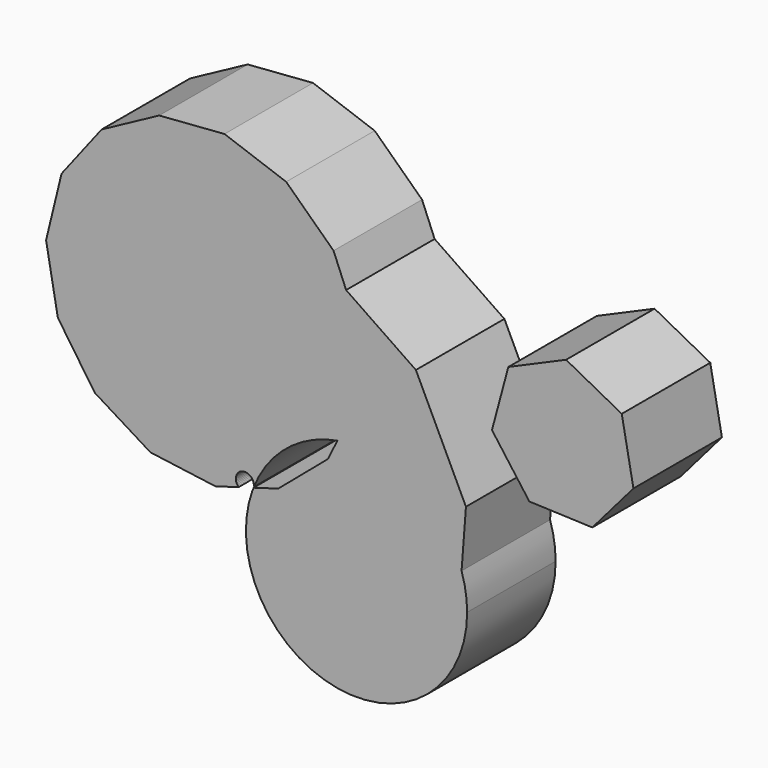
from build123d import *

# Parameters (mm, degrees)
F1_DEPTH = 25.4


with BuildPart() as f1:
    # F0 (on Front) → F1 (new body)
    with BuildSketch(Plane.XZ):
        Polygon((34.8566744245, 52.6691357483), (31.1018098146, 38.6991985142), (39.6828267606, 27.0534137518), (54.1380444814, 26.5012949177), (63.5823892004, 37.4585987553), (60.9040767148, 51.6742519866), (48.1199309538, 58.4435777819), align=None)
    extrude(amount=F1_DEPTH)


with BuildPart() as f1b:
    # F0 (on Front) → F1, piece 2 (new body)
    with BuildSketch(Plane.XZ):
        with BuildLine():
            ThreePointArc((11.0580974059, -22.8665362869), (21.5178492665, -13.496005444), (25.4, 0))
            ThreePointArc((25.4, 0), (25.0779056149, 4.0322016283), (24.1197913408, 7.9621395161))
            Line((24.1197913408, 7.9621395161), (23.1239564498, -5.1969946066))
            Line((23.1239564498, -5.1969946066), (11.0580974059, -22.8665362869))
        make_face()
        Polygon((-8.2755630628, 60.1271459405), (-2.3912059918, 56.1089419448), (-5.2743577139, 63.1287774352), (-16.1509683998, 73.5122769545), (-30.3105964242, 78.5741596564), (-45.3049134657, 77.439180036), (-58.5412658886, 70.3035863806), (-67.7309681106, 58.401187658), (-71.2850371316, 43.7900167374), (-69.605856925, 34.5763140522), (-58.6392917008, 50.6360227405), (-34.7289967801, 62.1290445487), align=None)
        with BuildLine():
            ThreePointArc((-4.4094518109, 25.0143305872), (13.0314495041, 21.802323817), (24.1197913408, 7.9621395161))
            Line((24.1197913408, 7.9621395161), (25.1258550579, 21.2564391108))
            Line((25.1258550579, 21.2564391108), (13.6328332497, 45.1667340314))
            Line((13.6328332497, 45.1667340314), (-2.3912059918, 56.1089419448))
            Line((-2.3912059918, 56.1089419448), (0.4385708348, 49.2190624965))
            Line((0.4385708348, 49.2190624965), (0, 34.1882482171))
            Line((0, 34.1882482171), (-4.4094518109, 25.0143305872))
        make_face()
        with BuildLine():
            Line((23.1239564498, -5.1969946066), (24.1197913408, 7.9621395161))
            ThreePointArc((24.1197913408, 7.9621395161), (13.0314495041, 21.802323817), (-4.4094518109, 25.0143305872))
            Line((-4.4094518109, 25.0143305872), (-6.5142373367, 20.6352989366))
            Line((-6.5142373367, 20.6352989366), (-17.9777703597, 10.9036427102))
            Line((-17.9777703597, 10.9036427102), (-23.6327792025, 9.2469280132))
            Line((-23.6327792025, 9.2469280132), (-23.6581400337, 9.1376656564))
            Line((-23.6581400337, 9.1376656564), (-23.7506981535, 8.8889762744))
            Line((-23.7506981535, 8.8889762744), (-23.8742980647, 8.6541646984))
            Line((-23.8742980647, 8.6541646984), (-23.8865283324, 8.6367681585))
            ThreePointArc((-23.8865283324, 8.6367681585), (-17.0075485522, -18.8653993397), (11.0580974059, -22.8665362869))
            Line((11.0580974059, -22.8665362869), (23.1239564498, -5.1969946066))
        make_face()
        with BuildLine():
            ThreePointArc((-23.5981435072, 9.3961493717), (-16.0339715914, 19.6995369236), (-4.4094518109, 25.0143305872))
            Line((-4.4094518109, 25.0143305872), (0, 34.1882482171))
            Line((0, 34.1882482171), (0.4385708348, 49.2190624965))
            Line((0.4385708348, 49.2190624965), (-2.3912059918, 56.1089419448))
            Line((-2.3912059918, 56.1089419448), (-8.2755630628, 60.1271459405))
            Line((-8.2755630628, 60.1271459405), (-34.7289967801, 62.1290445487))
            Line((-34.7289967801, 62.1290445487), (-58.6392917008, 50.6360227405))
            Line((-58.6392917008, 50.6360227405), (-69.605856925, 34.5763140522))
            Line((-69.605856925, 34.5763140522), (-68.5889421302, 28.9964778091))
            Line((-68.5889421302, 28.9964778091), (-60.1088624254, 16.578508149))
            Line((-60.1088624254, 16.578508149), (-47.3110808372, 8.683287525))
            Line((-47.3110808372, 8.683287525), (-32.4084500665, 6.6759713089))
            Line((-32.4084500665, 6.6759713089), (-27.0724970191, 8.2392141052))
            Line((-27.0724970191, 8.2392141052), (-27.0872704066, 8.2518847175))
            Line((-27.0872704066, 8.2518847175), (-27.2649465658, 8.4489750439))
            Line((-27.2649465658, 8.4489750439), (-27.4159606546, 8.6671679843))
            Line((-27.4159606546, 8.6671679843), (-27.5378330259, 8.9028808167))
            Line((-27.5378330259, 8.9028808167), (-27.6285625387, 9.152243143))
            Line((-27.6285625387, 9.152243143), (-27.686659417, 9.4111604407))
            Line((-27.686659417, 9.4111604407), (-27.7111697116, 9.6753812947))
            Line((-27.7111697116, 9.6753812947), (-27.7016909641, 9.9405672062))
            Line((-27.7016909641, 9.9405672062), (-27.6583788153, 10.2023638296))
            Line((-27.6583788153, 10.2023638296), (-27.5819444496, 10.4564724717))
            Line((-27.5819444496, 10.4564724717), (-27.473642917, 10.6987206757))
            Line((-27.473642917, 10.6987206757), (-27.3352525257, 10.9251307326))
            Line((-27.3352525257, 10.9251307326), (-27.1690456422, 11.1319849957))
            Line((-27.1690456422, 11.1319849957), (-26.9777513788, 11.3158869236))
            Line((-26.9777513788, 11.3158869236), (-26.7645107822, 11.4738168518))
            Line((-26.7645107822, 11.4738168518), (-26.5328252569, 11.6031815752))
            Line((-26.5328252569, 11.6031815752), (-26.286499073, 11.7018569286))
            Line((-26.286499073, 11.7018569286), (-26.0295768995, 11.7682226655))
            Line((-26.0295768995, 11.7682226655), (-25.7662773914, 11.8011890623))
            Line((-25.7662773914, 11.8011890623), (-25.5009239194, 11.8002148116))
            Line((-25.5009239194, 11.8002148116), (-25.2378735801, 11.7653159107))
            Line((-25.2378735801, 11.7653159107), (-24.9814456529, 11.6970653985))
            Line((-24.9814456529, 11.6970653985), (-24.7358506772, 11.5965839466))
            Line((-24.7358506772, 11.5965839466), (-24.5051213157, 11.4655214576))
            Line((-24.5051213157, 11.4655214576), (-24.2930461382, 11.3060299739))
            Line((-24.2930461382, 11.3060299739), (-24.1031074132, 11.1207283414))
            Line((-24.1031074132, 11.1207283414), (-23.9384239293, 10.9126592076))
            Line((-23.9384239293, 10.9126592076), (-23.8016997848, 10.6852390621))
            Line((-23.8016997848, 10.6852390621), (-23.6951799864, 10.4422021373))
            Line((-23.6951799864, 10.4422021373), (-23.6206135862, 10.1875390928))
            Line((-23.6206135862, 10.1875390928), (-23.5792249624, 9.9254314888))
            Line((-23.5792249624, 9.9254314888), (-23.5716937151, 9.6601831248))
            Line((-23.5716937151, 9.6601831248), (-23.5981435072, 9.3961493717))
        make_face()
    extrude(amount=F1_DEPTH)


solid = Compound([f1.part, f1b.part])
